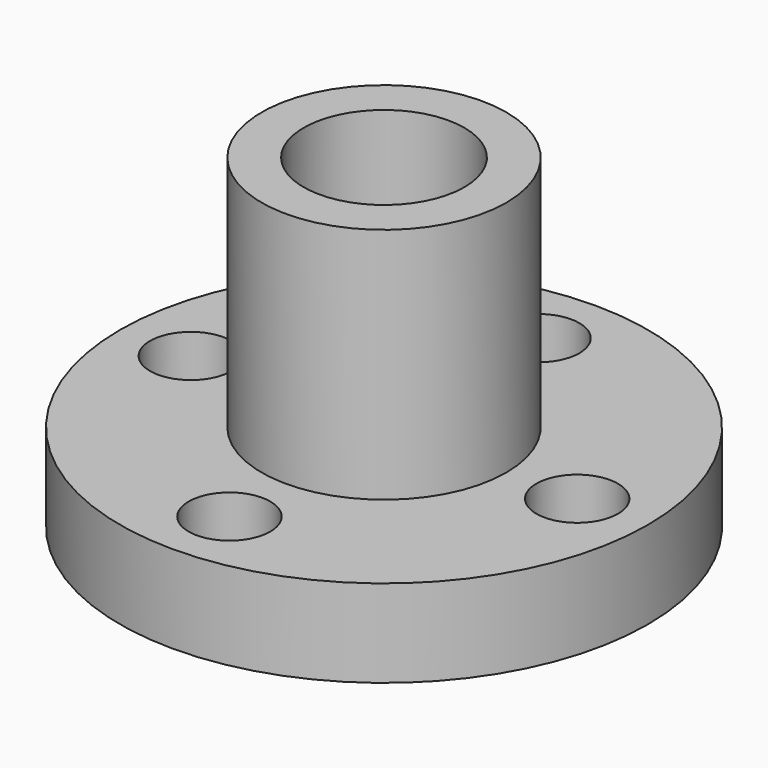
from build123d import *

# Parameters (mm, degrees)
F0_R     = 5.1
F0_R_2   = 3.35
F1_DEPTH = 15
F2_START = 1.45
F0_R_3   = 11
F0_R_4   = 1.7
F2_DEPTH = 3.65


with BuildPart() as f1:
    # F0 (on Top) → F1 (new body)
    with BuildSketch(Plane.XY):
        Circle(F0_R)
        Circle(F0_R_2, mode=Mode.SUBTRACT)
    extrude(amount=F1_DEPTH)

    # F0 (on Top) → F2 (join)
    with BuildSketch(Plane.XY.offset(F2_START)):
        Circle(F0_R_3)
        with Locations((0, -8.05)):
            Circle(F0_R_4, mode=Mode.SUBTRACT)
        with Locations((-8.05, 0)):
            Circle(F0_R_4, mode=Mode.SUBTRACT)
        Circle(F0_R, mode=Mode.SUBTRACT)
        with Locations((8.05, 0)):
            Circle(F0_R_4, mode=Mode.SUBTRACT)
        with Locations((0, 8.05)):
            Circle(F0_R_4, mode=Mode.SUBTRACT)
    extrude(amount=F2_DEPTH)


solid = f1.part
